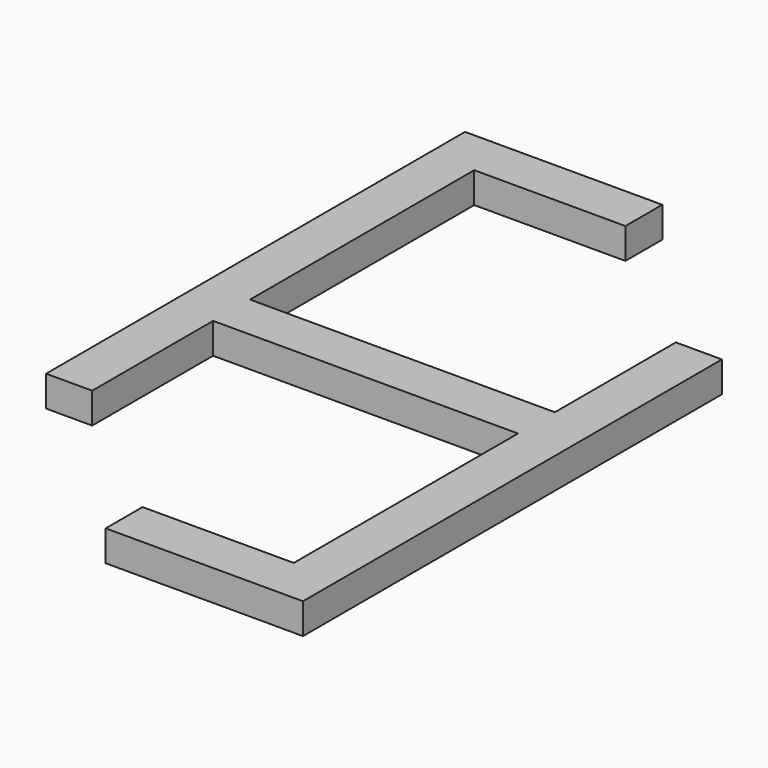
from build123d import *

# Parameters (mm, degrees)
F1_DEPTH = 6.35


with BuildPart() as f1:
    # F0 (on Top) → F1 (new body)
    with BuildSketch(Plane.XY):
        Polygon((-31.496, 57.912), (-0.254, 57.912), (-0.254, 67.437), (-41.021, 67.437), (-41.021, -40.767), (-31.496, -40.767), (-31.496, -9.525), (31.496, -9.525), (31.496, -67.437), (0.254, -67.437), (0.254, -76.962), (41.021, -76.962), (41.021, 31.242), (31.496, 31.242), (31.496, 0), (-31.496, 0), align=None)
    extrude(amount=F1_DEPTH)


solid = f1.part
